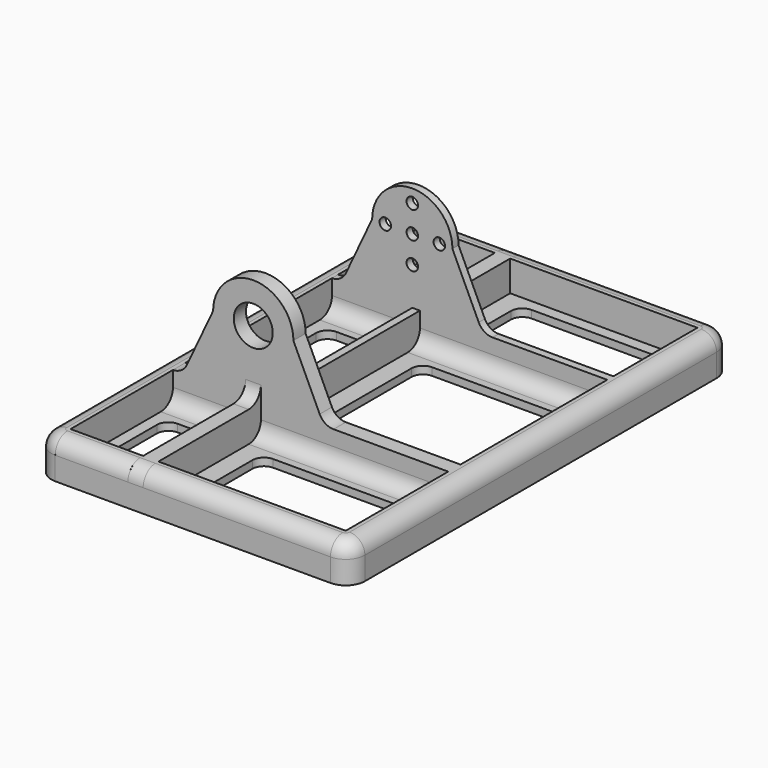
from build123d import *

# Parameters (mm, degrees)
PAD_DEPTH     = 2
SKETCH001_R   = 5.1
PAD001_DEPTH  = 4
SKETCH002_R   = 1.5
PAD002_DEPTH  = 2
SKETCH003_W   = 8
SKETCH003_H   = 48
PAD003_DEPTH  = 2
PAD004_DEPTH  = 8
FILLET_R      = 4
SKETCH005_W   = 19
SKETCH005_H   = 5
SKETCH005_W_2 = 49
PAD005_DEPTH  = 8
FILLET001_R   = 3.99
CHAMFER_SIZE2 = 2
CHAMFER_SIZE  = 4
FILLET002_R   = 4


with BuildPart() as body:
    # Sketch → Pad (new body)
    with BuildSketch(Plane.XY):
        with BuildLine():
            ThreePointArc((-36, 62.5), (-39.535534, 61.035534), (-41, 57.5))
            Line((-41, -57.5), (-41, 57.5))
            ThreePointArc((-41, -57.5), (-39.535534, -61.035534), (-36, -62.5))
            Line((36, -62.5), (-36, -62.5))
            ThreePointArc((36, -62.5), (39.535534, -61.035534), (41, -57.5))
            Line((41, 57.5), (41, -57.5))
            ThreePointArc((41, 57.5), (39.535534, 61.035534), (36, 62.5))
            Line((-36, 62.5), (36, 62.5))
        make_face()
        with BuildLine():
            ThreePointArc((-30, 54.5), (-32.12132, 53.62132), (-33, 51.5))
            Line((-33, 39), (-33, 51.5))
            ThreePointArc((-33, 39), (-32.12132, 36.87868), (-30, 36))
            Line((5, 36), (-30, 36))
            ThreePointArc((5, 36), (7.12132, 36.87868), (8, 39))
            Line((8, 51.5), (8, 39))
            ThreePointArc((8, 51.5), (7.12132, 53.62132), (5, 54.5))
            Line((-30, 54.5), (5, 54.5))
        make_face(mode=Mode.SUBTRACT)
        with BuildLine():
            ThreePointArc((25, 54.5), (22.87868, 53.62132), (22, 51.5))
            Line((22, 39), (22, 51.5))
            ThreePointArc((22, 39), (22.87868, 36.87868), (25, 36))
            Line((30, 36), (25, 36))
            ThreePointArc((30, 36), (32.12132, 36.87868), (33, 39))
            Line((33, 51.5), (33, 39))
            ThreePointArc((33, 51.5), (32.12132, 53.62132), (30, 54.5))
            Line((25, 54.5), (30, 54.5))
        make_face(mode=Mode.SUBTRACT)
        with BuildLine():
            ThreePointArc((-30, 22), (-32.12132, 21.12132), (-33, 19))
            Line((-33, -11), (-33, 19))
            ThreePointArc((-33, -11), (-32.12132, -13.12132), (-30, -14))
            Line((5, -14), (-30, -14))
            ThreePointArc((5, -14), (7.12132, -13.12132), (8, -11))
            Line((8, 19), (8, -11))
            ThreePointArc((8, 19), (7.12132, 21.12132), (5, 22))
            Line((-30, 22), (5, 22))
        make_face(mode=Mode.SUBTRACT)
        with BuildLine():
            ThreePointArc((25, 22), (22.87868, 21.12132), (22, 19))
            Line((22, -11), (22, 19))
            ThreePointArc((22, -11), (22.87868, -13.12132), (25, -14))
            Line((30, -14), (25, -14))
            ThreePointArc((30, -14), (32.12132, -13.12132), (33, -11))
            Line((33, 19), (33, -11))
            ThreePointArc((33, 19), (32.12132, 21.12132), (30, 22))
            Line((25, 22), (30, 22))
        make_face(mode=Mode.SUBTRACT)
        with BuildLine():
            ThreePointArc((-30, -30), (-32.12132, -30.87868), (-33, -33))
            Line((-33, -51.5), (-33, -33))
            ThreePointArc((-33, -51.5), (-32.12132, -53.62132), (-30, -54.5))
            Line((5, -54.5), (-30, -54.5))
            ThreePointArc((5, -54.5), (7.12132, -53.62132), (8, -51.5))
            Line((8, -33), (8, -51.5))
            ThreePointArc((8, -33), (7.12132, -30.87868), (5, -30))
            Line((-30, -30), (5, -30))
        make_face(mode=Mode.SUBTRACT)
        with BuildLine():
            ThreePointArc((25, -30), (22.87868, -30.87868), (22, -33))
            Line((22, -51.5), (22, -33))
            ThreePointArc((22, -51.5), (22.87868, -53.62132), (25, -54.5))
            Line((30, -54.5), (25, -54.5))
            ThreePointArc((30, -54.5), (32.12132, -53.62132), (33, -51.5))
            Line((33, -33), (33, -51.5))
            ThreePointArc((33, -33), (32.12132, -30.87868), (30, -30))
            Line((25, -30), (30, -30))
        make_face(mode=Mode.SUBTRACT)
    extrude(amount=PAD_DEPTH)

    # Sketch001 (on DatumPlane) → Pad001 (join)
    with BuildSketch(Plane.XZ.offset(24)):
        with BuildLine():
            Line((36, 2), (36, 10))
            ThreePointArc((32.377085, 12.304569), (33.85311, 10.624965), (36, 10))
            Line((32.377085, 12.304569), (25.5, 27))
            ThreePointArc((25.5, 27), (15, 37.5), (4.5, 27))
            Line((4.5, 27), (-2.377085, 12.304569))
            ThreePointArc((-6, 10), (-3.85311, 10.624965), (-2.377085, 12.304569))
            Line((-6, 10), (-36, 10))
            Line((-36, 10), (-36, 2))
            Line((-36, 2), (36, 2))
        make_face()
        with Locations((15, 27)):
            Circle(SKETCH001_R, mode=Mode.SUBTRACT)
    extrude(amount=-PAD001_DEPTH)

    # Sketch002 (on DatumPlane) → Pad002 (join)
    with BuildSketch(Plane.XZ.offset(-28)):
        with BuildLine():
            Line((-36, 10), (-6, 10))
            ThreePointArc((-6, 10), (-3.85311, 10.624965), (-2.377085, 12.304569))
            Line((4.5, 27), (-2.377085, 12.304569))
            ThreePointArc((25.5, 27), (15, 37.5), (4.5, 27))
            Line((25.5, 27), (32.377085, 12.304569))
            ThreePointArc((32.377085, 12.304569), (33.85311, 10.624965), (36, 10))
            Line((36, 10), (36, 2))
            Line((-36, 2), (36, 2))
            Line((-36, 10), (-36, 2))
        make_face()
        with Locations((7.928932, 27)):
            Circle(SKETCH002_R, mode=Mode.SUBTRACT)
        with Locations((15, 34.071068)):
            Circle(SKETCH002_R, mode=Mode.SUBTRACT)
        with Locations((15, 27)):
            Circle(SKETCH002_R, mode=Mode.SUBTRACT)
        with Locations((22.071068, 27)):
            Circle(SKETCH002_R, mode=Mode.SUBTRACT)
        with Locations((15, 19.928932)):
            Circle(SKETCH002_R, mode=Mode.SUBTRACT)
    extrude(amount=-PAD002_DEPTH)

    # Sketch003 (on DatumPlane) → Pad003 (join, symmetric)
    with BuildSketch(Plane(origin=(15, -24, 26), x_dir=(0, 0, 1), z_dir=(1, 0, 0))):
        with BuildLine():
            Line((-24, -54), (-24, -86.5))
            Line((-24, -86.5), (-20, -86.5))
            ThreePointArc((-20, -86.5), (-17.171573, -85.328427), (-16, -82.5))
            Line((-16, -58), (-16, -82.5))
            ThreePointArc((-12, -54), (-14.828427, -55.171573), (-16, -58))
            Line((-24, -54), (-12, -54))
        make_face()
        with BuildLine():
            Line((-24, 38.5), (-24, 0))
            Line((-24, 0), (-12, 0))
            ThreePointArc((-16, 4), (-14.828427, 1.171573), (-12, 0))
            Line((-16, 34.5), (-16, 4))
            ThreePointArc((-16, 34.5), (-17.171573, 37.328427), (-20, 38.5))
            Line((-24, 38.5), (-20, 38.5))
        make_face()
        with Locations((-20, -28)):
            Rectangle(SKETCH003_W, SKETCH003_H)
    extrude(amount=PAD003_DEPTH, both=True)

    # Sketch004 (on Face8 of Pad003) → Pad004 (join)
    with BuildSketch(Plane.XY.offset(2)):
        with BuildLine():
            Line((-41, -57.5), (-41, 57.5))
            ThreePointArc((-36, 62.5), (-39.535534, 61.035534), (-41, 57.5))
            Line((-36, 62.5), (-36, -62.5))
            ThreePointArc((-41, -57.5), (-39.535534, -61.035534), (-36, -62.5))
        make_face()
        with BuildLine():
            Line((41, -57.5), (41, 57.5))
            ThreePointArc((41, 57.5), (39.535534, 61.035534), (36, 62.5))
            Line((36, -62.5), (36, 62.5))
            ThreePointArc((36, -62.5), (39.535534, -61.035534), (41, -57.5))
        make_face()
    extrude(amount=PAD004_DEPTH)

    # Fillet
    fillet_edges = [body.edges().sort_by_distance(p)[0] for p in [
        (41, 0, 10),
        (-41, 0, 10),
    ]]
    fillet(fillet_edges, radius=FILLET_R)

    # Sketch005 (on Face99 of Fillet) → Pad005 (join)
    with BuildSketch(Plane.XY.offset(2)):
        with Locations((26.5, -60)):
            Rectangle(SKETCH005_W, SKETCH005_H)
        with Locations((-11.5, -60)):
            Rectangle(SKETCH005_W_2, SKETCH005_H)
        with Locations((26.5, 60)):
            Rectangle(SKETCH005_W, SKETCH005_H)
        with Locations((-11.5, 60)):
            Rectangle(SKETCH005_W_2, SKETCH005_H)
    extrude(amount=PAD005_DEPTH)

    # Fillet001
    fillet001_edges = [body.edges().sort_by_distance(p)[0] for p in [
        (-11.5, 62.5, 10),
        (26.5, 62.5, 10),
        (-11.5, -62.5, 10),
        (26.5, -62.5, 10),
    ]]
    fillet(fillet001_edges, radius=FILLET001_R)

    # Chamfer
    chamfer_edges = [body.edges().sort_by_distance(p)[0] for p in [
        (17, 4, 10),
    ]]
    chamfer_side = body.faces().sort_by_distance((17, 4, 6))[0]
    chamfer(chamfer_edges, length=CHAMFER_SIZE, length2=CHAMFER_SIZE2, reference=chamfer_side)

    # Fillet002
    fillet002_edges = [body.edges().sort_by_distance(p)[0] for p in [
        (-11.5, -24, 2),
        (26.5, -24, 2),
        (26.5, 28, 2),
        (-11.5, 28, 2),
        (26.5, 30, 2),
        (-11.5, 30, 2),
        (-11.5, -20, 2),
        (26.5, -20, 2),
    ]]
    fillet(fillet002_edges, radius=FILLET002_R)


with BuildPart() as part_mirroring:
    # Part__Mirroring: instance of Body
    add(body.part.mirror(Plane(origin=(0, 0, 0), x_dir=(0, -1, 0), z_dir=(1, 0, 0))))


solid = part_mirroring.part
